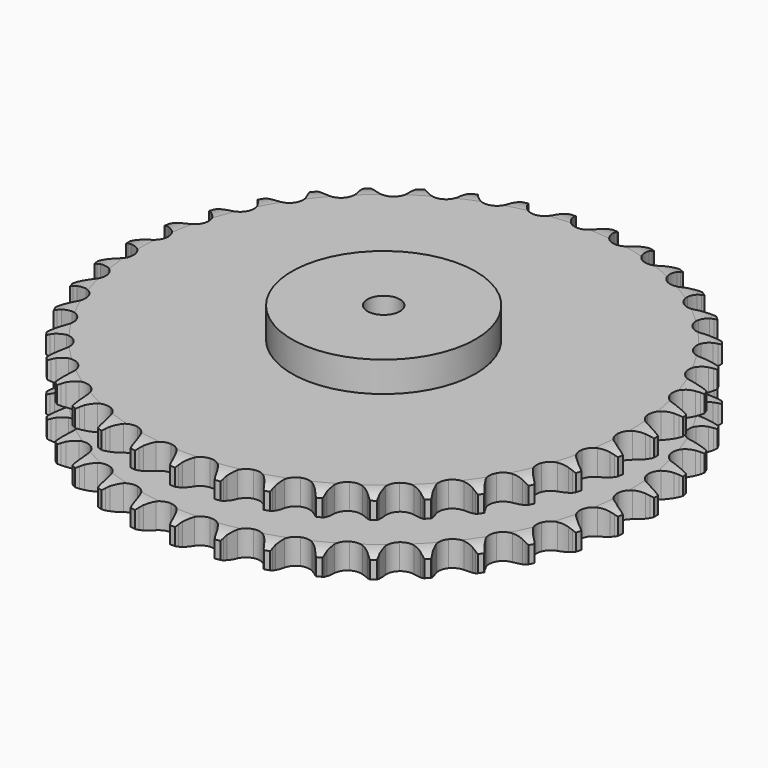
from build123d import *

# Parameters (mm, degrees)
PAD_DEPTH         = 72
SKETCH001_R       = 85
PAD001_DEPTH      = 100
SKETCH002_R       = 15
POCKET_DEPTH      = 0.001
POCKET_DEPTH_BACK = 100.001


with BuildPart() as part:
    # Sprocket → Pad (new body)
    with BuildSketch(Plane.XY):
        with BuildLine():
            ThreePointArc((-19.985627, 247.566418), (-17.701013, 244.436727), (-16.041452, 240.935259))
            Line((-16.041452, 240.935259), (-14.802936, 237.527718))
            ThreePointArc((-14.802936, 237.527718), (-12.848502, 233.161674), (-10.28554, 229.122692))
            ThreePointArc((-10.28554, 229.122692), (-5.758143, 225.310789), (0, 223.942682))
            ThreePointArc((0, 223.942682), (5.758143, 225.310789), (10.28554, 229.122692))
            ThreePointArc((10.28554, 229.122692), (12.848502, 233.161674), (14.802936, 237.527718))
            Line((14.802936, 237.527718), (16.041452, 240.935259))
            ThreePointArc((16.041452, 240.935259), (17.701013, 244.436727), (19.985627, 247.566418))
            ThreePointArc((19.985627, 247.566418), (21.738619, 244.110778), (22.815014, 240.388441))
            Line((22.815014, 240.388441), (23.490884, 236.826355))
            ThreePointArc((23.490884, 236.826355), (24.719645, 232.203336), (26.601519, 227.80553))
            ThreePointArc((26.601519, 227.80553), (30.458816, 223.316745), (35.922932, 221.042683))
            ThreePointArc((35.922932, 221.042683), (41.825969, 221.469402), (46.90621, 224.505697))
            Line((46.90621, 224.505697), (52.713367, 232.077239))
            ThreePointArc((52.713367, 232.077239), (53.554574, 233.683835), (54.482453, 235.241981))
            ThreePointArc((54.482453, 235.241981), (56.682198, 238.431894), (59.439265, 241.154578))
            ThreePointArc((59.439265, 241.154578), (60.615232, 237.462488), (61.080583, 233.615688))
            Line((61.080583, 233.615688), (61.176302, 229.991313))
            ThreePointArc((61.176302, 229.991313), (61.647567, 225.231054), (62.799614, 220.588324))
            ThreePointArc((62.799614, 220.588324), (65.886907, 215.538914), (70.91548, 212.417794))
            ThreePointArc((70.91548, 212.417794), (76.810524, 211.892075), (82.312033, 214.074122))
            Line((82.312033, 214.074122), (89.25855, 220.616081))
            ThreePointArc((89.25855, 220.616081), (90.34658, 222.066932), (91.512387, 223.456059))
            ThreePointArc((91.512387, 223.456059), (94.195344, 226.251799), (97.353457, 228.49696))
            ThreePointArc((97.353457, 228.49696), (97.921942, 224.664044), (97.764197, 220.792412))
            Line((97.764197, 220.792412), (97.277286, 217.199617))
            ThreePointArc((97.277286, 217.199617), (96.978849, 212.425406), (97.371231, 207.657997))
            ThreePointArc((97.371231, 207.657997), (99.608562, 202.178738), (104.071353, 198.291397))
            ThreePointArc((104.071353, 198.291397), (109.805727, 196.826853), (115.586018, 198.098139))
            Line((115.586018, 198.098139), (123.491983, 203.441082))
            ThreePointArc((123.491983, 203.441082), (124.798656, 204.698613), (126.172199, 205.882742))
            ThreePointArc((126.172199, 205.882742), (129.26888, 208.211902), (132.746245, 209.921392))
            ThreePointArc((132.746245, 209.921392), (132.692526, 206.04692), (131.91577, 202.250728))
            Line((131.91577, 202.250728), (130.85884, 198.782564))
            ThreePointArc((130.85884, 198.782564), (129.79843, 194.118051), (129.420984, 189.349437))
            ThreePointArc((129.420984, 189.349437), (130.750408, 183.58224), (134.531834, 179.029356))
            ThreePointArc((134.531834, 179.029356), (139.957019, 176.66392), (145.866385, 176.991519))
            Line((145.866385, 176.991519), (154.527039, 180.997066))
            ThreePointArc((154.527039, 180.997066), (156.018513, 182.028708), (157.564216, 182.977171))
            ThreePointArc((157.564216, 182.977171), (160.99442, 184.779426), (164.700976, 185.90897))
            ThreePointArc((164.700976, 185.90897), (164.026443, 182.093288), (162.650794, 178.470856))
            Line((162.650794, 178.470856), (161.051218, 175.217148))
            ThreePointArc((161.051218, 175.217148), (159.256299, 170.783141), (158.118802, 166.136825))
            ThreePointArc((158.118802, 166.136825), (158.505887, 160.231057), (161.50801, 155.130549))
            ThreePointArc((161.50801, 155.130549), (166.483498, 151.925484), (172.36889, 151.300912))
            Line((172.36889, 151.300912), (181.559926, 153.865322))
            ThreePointArc((181.559926, 153.865322), (183.197573, 154.644354), (184.875403, 155.332587))
            ThreePointArc((184.875403, 155.332587), (188.550289, 156.56126), (192.390037, 157.081603))
            ThreePointArc((192.390037, 157.081603), (191.112161, 153.423536), (189.173248, 150.068683))
            Line((189.173248, 150.068683), (187.072454, 147.1137))
            ThreePointArc((187.072454, 147.1137), (184.589515, 143.025037), (182.721426, 138.621358))
            ThreePointArc((182.721426, 138.621358), (182.156146, 132.729975), (184.301214, 127.213943))
            ThreePointArc((184.301214, 127.213943), (188.698142, 123.252258), (194.407132, 121.69169))
            Line((194.407132, 121.69169), (203.890506, 122.748546))
            ThreePointArc((203.890506, 122.748546), (205.631911, 123.254793), (207.398415, 123.664971))
            ThreePointArc((207.398415, 123.664971), (211.222805, 124.288239), (215.096298, 124.185905))
            ThreePointArc((215.096298, 124.185905), (213.248175, 120.780195), (210.796213, 117.77981))
            Line((210.796213, 117.77981), (208.248612, 115.200084))
            ThreePointArc((208.248612, 115.200084), (205.141958, 111.56266), (202.591661, 107.515669))
            ThreePointArc((202.591661, 107.515669), (201.088657, 101.791256), (202.321113, 96.002562))
            ThreePointArc((202.321113, 96.002562), (206.025603, 91.386862), (211.41033, 88.930718))
            Line((211.41033, 88.930718), (220.940429, 88.452647))
            ThreePointArc((220.940429, 88.452647), (222.740491, 88.672998), (224.549916, 88.794496))
            ThreePointArc((224.549916, 88.794496), (228.42476, 88.796219), (232.231677, 88.073858))
            ThreePointArc((232.231677, 88.073858), (229.861173, 85.00871), (226.959668, 82.440502))
            Line((226.959668, 82.440502), (224.03124, 80.302847))
            ThreePointArc((224.03124, 80.302847), (220.381333, 77.210869), (217.214879, 73.625382))
            ThreePointArc((217.214879, 73.625382), (214.813078, 68.216197), (215.101002, 62.304765))
            ThreePointArc((215.101002, 62.304765), (218.01711, 57.154596), (222.938112, 53.866487))
            Line((222.938112, 53.866487), (232.268111, 51.865872))
            ThreePointArc((232.268111, 51.865872), (234.08021, 51.794618), (235.885692, 51.624291))
            ThreePointArc((235.885692, 51.624291), (239.710635, 51.004422), (243.352379, 49.680744))
            ThreePointArc((243.352379, 49.680744), (240.520887, 47.035545), (237.244987, 44.966028))
            Line((237.244987, 44.966028), (234.011577, 43.325808))
            ThreePointArc((234.011577, 43.325808), (229.912947, 40.859357), (226.212345, 37.828236))
            ThreePointArc((226.212345, 37.828236), (222.973952, 32.874374), (222.309887, 26.993307))
            ThreePointArc((222.309887, 26.993307), (224.362087, 21.442055), (228.691914, 17.407142))
            Line((228.691914, 17.407142), (237.58017, 13.935797))
            ThreePointArc((237.58017, 13.935797), (239.357373, 13.574785), (241.112153, 13.117044))
            ThreePointArc((241.112153, 13.117044), (244.78813, 11.891639), (248.170381, 10.000924))
            ThreePointArc((248.170381, 10.000924), (244.951237, 7.844183), (241.385784, 6.326958))
            Line((241.385784, 6.326958), (237.931137, 5.226653))
            ThreePointArc((237.931137, 5.226653), (233.489936, 3.449608), (229.35103, 1.051358))
            ThreePointArc((229.35103, 1.051358), (225.359919, -3.318878), (223.761064, -9.017263))
            ThreePointArc((223.761064, -9.017263), (224.896205, -14.825824), (228.522716, -19.503039))
            Line((228.522716, -19.503039), (236.739029, -24.355207))
            ThreePointArc((236.739029, -24.355207), (238.435307, -24.996627), (240.093936, -25.729927))
            ThreePointArc((240.093936, -25.729927), (243.525741, -27.529132), (246.560901, -29.937914))
            ThreePointArc((246.560901, -29.937914), (243.037478, -31.550339), (239.274817, -32.475977))
            Line((239.274817, -32.475977), (235.688405, -33.007869))
            ThreePointArc((235.688405, -33.007869), (231.019659, -34.049483), (226.549644, -35.752749))
            ThreePointArc((226.549644, -35.752749), (221.909181, -39.426172), (219.416946, -44.79429))
            ThreePointArc((219.416946, -44.79429), (219.605628, -50.709722), (222.434899, -55.908101))
            Line((222.434899, -55.908101), (229.76647, -62.015424))
            ThreePointArc((229.76647, -62.015424), (231.337891, -62.920641), (232.857412, -63.910507))
            ThreePointArc((232.857412, -63.910507), (235.956163, -66.236913), (238.565623, -69.101375))
            ThreePointArc((238.565623, -69.101375), (234.829176, -70.127723), (230.966758, -70.437802))
            Line((230.966758, -70.437802), (227.341468, -70.387505))
            ThreePointArc((227.341468, -70.387505), (222.566094, -70.666711), (217.880741, -71.630879))
            ThreePointArc((217.880741, -71.630879), (212.711113, -74.51235), (209.390045, -79.411169))
            ThreePointArc((209.390045, -79.411169), (208.627382, -85.280264), (210.586136, -90.865173))
            Line((210.586136, -90.865173), (216.843081, -98.069475))
            ThreePointArc((216.843081, -98.069475), (218.248946, -99.215042), (219.590003, -100.435839))
            ThreePointArc((219.590003, -100.435839), (222.275445, -103.229193), (224.391621, -106.475148))
            ThreePointArc((224.391621, -106.475148), (220.538922, -106.888836), (216.676781, -106.575324))
            Line((216.676781, -106.575324), (213.106506, -105.944141))
            ThreePointArc((213.106506, -105.944141), (208.348184, -105.453707), (203.568842, -105.653807))
            ThreePointArc((203.568842, -105.653807), (198.003939, -107.668696), (193.940051, -111.971341))
            ThreePointArc((193.940051, -111.971341), (192.245796, -117.642093), (193.283302, -123.468885))
            Line((193.283302, -123.468885), (198.30357, -131.583577))
            ThreePointArc((198.30357, -131.583577), (199.507467, -132.939827), (200.635329, -134.359935))
            ThreePointArc((200.635329, -134.359935), (202.837909, -137.547891), (204.405993, -141.09127))
            ThreePointArc((204.405993, -141.09127), (200.536826, -140.881585), (196.77499, -139.952602))
            Line((196.77499, -139.952602), (193.352197, -138.75688))
            ThreePointArc((193.352197, -138.75688), (188.734165, -137.509509), (183.984616, -136.940357))
            ThreePointArc((183.984616, -136.940357), (178.168566, -138.03648), (173.467112, -141.631513))
            ThreePointArc((173.467112, -141.631513), (170.885144, -146.957053), (170.974532, -152.874817))
            Line((170.974532, -152.874817), (174.628101, -161.689734))
            ThreePointArc((174.628101, -161.689734), (175.59885, -163.221539), (176.484305, -164.804179))
            ThreePointArc((176.484305, -164.804179), (178.146978, -168.304171), (179.126358, -172.053202))
            ThreePointArc((179.126358, -172.053202), (175.340931, -171.225575), (171.776829, -169.705181))
            Line((171.776829, -169.705181), (168.590168, -167.975888))
            ThreePointArc((168.590168, -167.975888), (164.232031, -166.003886), (159.635286, -164.680223))
            ThreePointArc((159.635286, -164.680223), (153.718721, -164.829192), (148.501466, -167.623504))
            ThreePointArc((148.501466, -167.623504), (145.098657, -172.465902), (144.237611, -178.321372))
            Line((144.237611, -178.321372), (146.429856, -187.608212))
            ThreePointArc((146.429856, -187.608212), (147.142315, -189.275899), (147.76243, -190.980082))
            ThreePointArc((147.76243, -190.980082), (148.842134, -194.701461), (149.207444, -198.559047))
            ThreePointArc((149.207444, -198.559047), (145.603798, -197.134912), (142.329739, -195.062484))
            Line((142.329739, -195.062484), (139.461742, -192.844409))
            ThreePointArc((139.461742, -192.844409), (135.476374, -190.19885), (131.151485, -188.154958))
            ThreePointArc((131.151485, -188.154958), (125.287642, -187.352914), (119.68971, -189.274134))
            ThreePointArc((119.68971, -189.274134), (115.554192, -193.507976), (113.765012, -199.149497))
            Line((113.765012, -199.149497), (114.439154, -208.667736))
            ThreePointArc((114.439154, -208.667736), (114.874871, -210.428113), (115.213586, -212.2097))
            ThreePointArc((115.213586, -212.2097), (115.682356, -216.056085), (115.424136, -219.922317))
            ThreePointArc((115.424136, -219.922317), (112.095604, -217.938558), (109.196383, -215.367772))
            Line((109.196383, -215.367772), (106.721331, -212.718362))
            ThreePointArc((106.721331, -212.718362), (103.211949, -209.467763), (99.27093, -206.756578))
            ThreePointArc((99.27093, -206.756578), (93.611679, -205.024295), (87.778054, -206.022664))
            ThreePointArc((87.778054, -206.022664), (83.016933, -209.538294), (80.345959, -214.819755))
            Line((80.345959, -214.819755), (79.484538, -224.322875))
            ThreePointArc((79.484538, -224.322875), (79.632229, -226.13035), (79.68077, -227.943199))
            ThreePointArc((79.68077, -227.943199), (79.526467, -231.814971), (78.651403, -235.589714))
            ThreePointArc((78.651403, -235.589714), (75.684192, -233.097711), (73.234898, -230.095148))
            Line((73.234898, -230.095148), (71.216893, -227.08302))
            ThreePointArc((71.216893, -227.08302), (68.274389, -223.311572), (64.81931, -220.003312))
            ThreePointArc((64.81931, -220.003312), (59.511223, -217.385653), (53.592992, -217.435314))
            ThreePointArc((53.592992, -217.435314), (48.329579, -220.141681), (44.845988, -224.926294))
            Line((44.845988, -224.926294), (42.471315, -234.168169))
            ThreePointArc((42.471315, -234.168169), (42.327153, -235.975929), (42.084265, -237.773089))
            ThreePointArc((42.084265, -237.773089), (41.310884, -241.56997), (39.84164, -245.155461))
            ThreePointArc((39.84164, -245.155461), (37.312599, -242.219755), (35.376668, -238.86318))
            Line((35.376668, -238.86318), (33.867975, -235.566348))
            ThreePointArc((33.867975, -235.566348), (31.568559, -231.371728), (28.688904, -227.552076))
            ThreePointArc((28.688904, -227.552076), (23.869457, -224.116838), (18.019899, -223.216504))
            ThreePointArc((18.019899, -223.216504), (12.390515, -225.043514), (8.18453, -229.20736))
            Line((8.18453, -229.20736), (4.358106, -237.94863))
            ThreePointArc((4.358106, -237.94863), (3.925826, -239.709856), (3.397799, -241.444781))
            ThreePointArc((3.397799, -241.444781), (2.02537, -245.068434), (0, -248.371811))
            ThreePointArc((0, -248.371811), (-2.02537, -245.068434), (-3.397799, -241.444781))
            Line((-3.397799, -241.444781), (-4.358106, -237.94863))
            ThreePointArc((-4.358106, -237.94863), (-5.954881, -233.439477), (-8.18453, -229.20736))
            ThreePointArc((-8.18453, -229.20736), (-12.390515, -225.043514), (-18.019899, -223.216504))
            ThreePointArc((-18.019899, -223.216504), (-23.869457, -224.116838), (-28.688904, -227.552076))
            Line((-28.688904, -227.552076), (-33.867975, -235.566348))
            ThreePointArc((-33.867975, -235.566348), (-34.577177, -237.235423), (-35.376668, -238.86318))
            ThreePointArc((-35.376668, -238.86318), (-37.312599, -242.219755), (-39.84164, -245.155461))
            ThreePointArc((-39.84164, -245.155461), (-41.310884, -241.56997), (-42.084265, -237.773089))
            Line((-42.084265, -237.773089), (-42.471315, -234.168169))
            ThreePointArc((-42.471315, -234.168169), (-43.324093, -229.461267), (-44.845988, -224.926294))
            ThreePointArc((-44.845988, -224.926294), (-48.329579, -220.141681), (-53.592992, -217.435314))
            ThreePointArc((-53.592992, -217.435314), (-59.511223, -217.385653), (-64.81931, -220.003312))
            Line((-64.81931, -220.003312), (-71.216893, -227.08302))
            ThreePointArc((-71.216893, -227.08302), (-72.18465, -228.616717), (-73.234898, -230.095148))
            ThreePointArc((-73.234898, -230.095148), (-75.684192, -233.097711), (-78.651403, -235.589714))
            ThreePointArc((-78.651403, -235.589714), (-79.526467, -231.814971), (-79.68077, -227.943199))
            Line((-79.68077, -227.943199), (-79.484538, -224.322875))
            ThreePointArc((-79.484538, -224.322875), (-79.571233, -219.540131), (-80.345959, -214.819755))
            ThreePointArc((-80.345959, -214.819755), (-83.016933, -209.538294), (-87.778054, -206.022664))
            ThreePointArc((-87.778054, -206.022664), (-93.611679, -205.024295), (-99.27093, -206.756578))
            Line((-99.27093, -206.756578), (-106.721331, -212.718362))
            ThreePointArc((-106.721331, -212.718362), (-107.922578, -214.076959), (-109.196383, -215.367772))
            ThreePointArc((-109.196383, -215.367772), (-112.095604, -217.938558), (-115.424136, -219.922317))
            ThreePointArc((-115.424136, -219.922317), (-115.682356, -216.056085), (-115.213586, -212.2097))
            Line((-115.213586, -212.2097), (-114.439154, -208.667736))
            ThreePointArc((-114.439154, -208.667736), (-113.75752, -203.933021), (-113.765012, -199.149497))
            ThreePointArc((-113.765012, -199.149497), (-115.554192, -193.507976), (-119.68971, -189.274134))
            ThreePointArc((-119.68971, -189.274134), (-125.287642, -187.352914), (-131.151485, -188.154958))
            Line((-131.151485, -188.154958), (-139.461742, -192.844409))
            ThreePointArc((-139.461742, -192.844409), (-140.865368, -193.992719), (-142.329739, -195.062484))
            ThreePointArc((-142.329739, -195.062484), (-145.603798, -197.134912), (-149.207444, -198.559047))
            ThreePointArc((-149.207444, -198.559047), (-148.842134, -194.701461), (-147.76243, -190.980082))
            Line((-147.76243, -190.980082), (-146.429856, -187.608212))
            ThreePointArc((-146.429856, -187.608212), (-144.997547, -183.044152), (-144.237611, -178.321372))
            ThreePointArc((-144.237611, -178.321372), (-145.098657, -172.465902), (-148.501466, -167.623504))
            ThreePointArc((-148.501466, -167.623504), (-153.718721, -164.829192), (-159.635286, -164.680223))
            Line((-159.635286, -164.680223), (-168.590168, -167.975888))
            ThreePointArc((-168.590168, -167.975888), (-170.159819, -168.88417), (-171.776829, -169.705181))
            ThreePointArc((-171.776829, -169.705181), (-175.340931, -171.225575), (-179.126358, -172.053202))
            ThreePointArc((-179.126358, -172.053202), (-178.146978, -168.304171), (-176.484305, -164.804179))
            Line((-176.484305, -164.804179), (-174.628101, -161.689734))
            ThreePointArc((-174.628101, -161.689734), (-172.482214, -157.414536), (-170.974532, -152.874817))
            ThreePointArc((-170.974532, -152.874817), (-170.885144, -146.957053), (-173.467112, -141.631513))
            ThreePointArc((-173.467112, -141.631513), (-178.168566, -138.03648), (-183.984616, -136.940357))
            Line((-183.984616, -136.940357), (-193.352197, -138.75688))
            ThreePointArc((-193.352197, -138.75688), (-195.04722, -139.40161), (-196.77499, -139.952602))
            ThreePointArc((-196.77499, -139.952602), (-200.536826, -140.881585), (-204.405993, -141.09127))
            ThreePointArc((-204.405993, -141.09127), (-202.837909, -137.547891), (-200.635329, -134.359935))
            Line((-200.635329, -134.359935), (-198.30357, -131.583577))
            ThreePointArc((-198.30357, -131.583577), (-195.499682, -127.707966), (-193.283302, -123.468885))
            ThreePointArc((-193.283302, -123.468885), (-192.245796, -117.642093), (-193.940051, -111.971341))
            ThreePointArc((-193.940051, -111.971341), (-198.003939, -107.668696), (-203.568842, -105.653807))
            Line((-203.568842, -105.653807), (-213.106506, -105.944141))
            ThreePointArc((-213.106506, -105.944141), (-214.883001, -106.308622), (-216.676781, -106.575324))
            ThreePointArc((-216.676781, -106.575324), (-220.538922, -106.888836), (-224.391621, -106.475148))
            ThreePointArc((-224.391621, -106.475148), (-222.275445, -103.229193), (-219.590003, -100.435839))
            Line((-219.590003, -100.435839), (-216.843081, -98.069475))
            ThreePointArc((-216.843081, -98.069475), (-213.453811, -94.693828), (-210.586136, -90.865173))
            ThreePointArc((-210.586136, -90.865173), (-208.627382, -85.280264), (-209.390045, -79.411169))
            ThreePointArc((-209.390045, -79.411169), (-212.711113, -74.51235), (-217.880741, -71.630879))
            Line((-217.880741, -71.630879), (-227.341468, -70.387505))
            ThreePointArc((-227.341468, -70.387505), (-229.153424, -70.462295), (-230.966758, -70.437802))
            ThreePointArc((-230.966758, -70.437802), (-234.829176, -70.127723), (-238.565623, -69.101375))
            ThreePointArc((-238.565623, -69.101375), (-235.956163, -66.236913), (-232.857412, -63.910507))
            Line((-232.857412, -63.910507), (-229.76647, -62.015424))
            ThreePointArc((-229.76647, -62.015424), (-225.879598, -59.227168), (-222.434899, -55.908101))
            ThreePointArc((-222.434899, -55.908101), (-219.605628, -50.709722), (-219.416946, -44.79429))
            ThreePointArc((-219.416946, -44.79429), (-221.909181, -39.426172), (-226.549644, -35.752749))
            Line((-226.549644, -35.752749), (-235.688405, -33.007869))
            ThreePointArc((-235.688405, -33.007869), (-237.488895, -32.791033), (-239.274817, -32.475977))
            ThreePointArc((-239.274817, -32.475977), (-243.037478, -31.550339), (-246.560901, -29.937914))
            ThreePointArc((-246.560901, -29.937914), (-243.525741, -27.529132), (-240.093936, -25.729927))
            Line((-240.093936, -25.729927), (-236.739029, -24.355207))
            ThreePointArc((-236.739029, -24.355207), (-232.455222, -22.226556), (-228.522716, -19.503039))
            ThreePointArc((-228.522716, -19.503039), (-224.896205, -14.825824), (-223.761064, -9.017263))
            ThreePointArc((-223.761064, -9.017263), (-225.359919, -3.318878), (-229.35103, 1.051358))
            Line((-229.35103, 1.051358), (-237.931137, 5.226653))
            ThreePointArc((-237.931137, 5.226653), (-239.673528, 5.7295), (-241.385784, 6.326958))
            ThreePointArc((-241.385784, 6.326958), (-244.951237, 7.844183), (-248.170381, 10.000924))
            ThreePointArc((-248.170381, 10.000924), (-244.78813, 11.891639), (-241.112153, 13.117044))
            Line((-241.112153, 13.117044), (-237.58017, 13.935797))
            ThreePointArc((-237.58017, 13.935797), (-233.010379, 15.349712), (-228.691914, 17.407142))
            ThreePointArc((-228.691914, 17.407142), (-224.362087, 21.442055), (-222.309887, 26.993307))
            ThreePointArc((-222.309887, 26.993307), (-222.973952, 32.874374), (-226.212345, 37.828236))
            Line((-226.212345, 37.828236), (-234.011577, 43.325808))
            ThreePointArc((-234.011577, 43.325808), (-235.650742, 44.101642), (-237.244987, 44.966028))
            ThreePointArc((-237.244987, 44.966028), (-240.520887, 47.035545), (-243.352379, 49.680744))
            ThreePointArc((-243.352379, 49.680744), (-239.710635, 51.004422), (-235.885692, 51.624291))
            Line((-235.885692, 51.624291), (-232.268111, 51.865872))
            ThreePointArc((-232.268111, 51.865872), (-227.530689, 52.52843), (-222.938112, 53.866487))
            ThreePointArc((-222.938112, 53.866487), (-218.01711, 57.154596), (-215.101002, 62.304765))
            ThreePointArc((-215.101002, 62.304765), (-214.813078, 68.216197), (-217.214879, 73.625382))
            Line((-217.214879, 73.625382), (-224.03124, 80.302847))
            ThreePointArc((-224.03124, 80.302847), (-225.524726, 81.331575), (-226.959668, 82.440502))
            ThreePointArc((-226.959668, 82.440502), (-229.861173, 85.00871), (-232.231677, 88.073858))
            ThreePointArc((-232.231677, 88.073858), (-228.42476, 88.796219), (-224.549916, 88.794496))
            Line((-224.549916, 88.794496), (-220.940429, 88.452647))
            ThreePointArc((-220.940429, 88.452647), (-216.158073, 88.34669), (-211.41033, 88.930718))
            ThreePointArc((-211.41033, 88.930718), (-206.025603, 91.386862), (-202.321113, 96.002562))
            ThreePointArc((-202.321113, 96.002562), (-201.088657, 101.791256), (-202.591661, 107.515669))
            Line((-202.591661, 107.515669), (-208.248612, 115.200084))
            ThreePointArc((-208.248612, 115.200084), (-209.557738, 116.455062), (-210.796213, 117.77981))
            ThreePointArc((-210.796213, 117.77981), (-213.248175, 120.780195), (-215.096298, 124.185905))
            ThreePointArc((-215.096298, 124.185905), (-211.222805, 124.288239), (-207.398415, 123.664971))
            Line((-207.398415, 123.664971), (-203.890506, 122.748546))
            ThreePointArc((-203.890506, 122.748546), (-199.187077, 121.876817), (-194.407132, 121.69169))
            ThreePointArc((-194.407132, 121.69169), (-188.698142, 123.252258), (-184.301214, 127.213943))
            ThreePointArc((-184.301214, 127.213943), (-182.156146, 132.729975), (-182.721426, 138.621358))
            Line((-182.721426, 138.621358), (-187.072454, 147.1137))
            ThreePointArc((-187.072454, 147.1137), (-188.163314, 148.562425), (-189.173248, 150.068683))
            ThreePointArc((-189.173248, 150.068683), (-191.112161, 153.423536), (-192.390037, 157.081603))
            ThreePointArc((-192.390037, 157.081603), (-188.550289, 156.56126), (-184.875403, 155.332587))
            Line((-184.875403, 155.332587), (-181.559926, 153.865322))
            ThreePointArc((-181.559926, 153.865322), (-177.05724, 152.250398), (-172.36889, 151.300912))
            ThreePointArc((-172.36889, 151.300912), (-166.483498, 151.925484), (-161.50801, 155.130549))
            ThreePointArc((-161.50801, 155.130549), (-158.505887, 160.231057), (-158.118802, 166.136825))
            Line((-158.118802, 166.136825), (-161.051218, 175.217148))
            ThreePointArc((-161.051218, 175.217148), (-161.89556, 176.822099), (-162.650794, 178.470856))
            ThreePointArc((-162.650794, 178.470856), (-164.026443, 182.093288), (-164.700976, 185.90897))
            ThreePointArc((-164.700976, 185.90897), (-160.99442, 184.779426), (-157.564216, 182.977171))
            Line((-157.564216, 182.977171), (-154.527039, 180.997066))
            ThreePointArc((-154.527039, 180.997066), (-150.341714, 178.680774), (-145.866385, 176.991519))
            ThreePointArc((-145.866385, 176.991519), (-139.957019, 176.66392), (-134.531834, 179.029356))
            ThreePointArc((-134.531834, 179.029356), (-130.750408, 183.58224), (-129.420984, 189.349437))
            Line((-129.420984, 189.349437), (-130.85884, 198.782564))
            ThreePointArc((-130.85884, 198.782564), (-131.434796, 200.502173), (-131.91577, 202.250728))
            ThreePointArc((-131.91577, 202.250728), (-132.692526, 206.04692), (-132.746245, 209.921392))
            ThreePointArc((-132.746245, 209.921392), (-129.26888, 208.211902), (-126.172199, 205.882742))
            Line((-126.172199, 205.882742), (-123.491983, 203.441082))
            ThreePointArc((-123.491983, 203.441082), (-119.732417, 200.483412), (-115.586018, 198.098139))
            ThreePointArc((-115.586018, 198.098139), (-109.805727, 196.826853), (-104.071353, 198.291397))
            ThreePointArc((-104.071353, 198.291397), (-99.608562, 202.178738), (-97.371231, 207.657997))
            Line((-97.371231, 207.657997), (-97.277286, 217.199617))
            ThreePointArc((-97.277286, 217.199617), (-97.569939, 218.989347), (-97.764197, 220.792412))
            ThreePointArc((-97.764197, 220.792412), (-97.921942, 224.664044), (-97.353457, 228.49696))
            ThreePointArc((-97.353457, 228.49696), (-94.195344, 226.251799), (-91.512387, 223.456059))
            Line((-91.512387, 223.456059), (-89.25855, 220.616081))
            ThreePointArc((-89.25855, 220.616081), (-86.022112, 217.093635), (-82.312033, 214.074122))
            ThreePointArc((-82.312033, 214.074122), (-76.810524, 211.892075), (-70.91548, 212.417794))
            ThreePointArc((-70.91548, 212.417794), (-65.886907, 215.538914), (-62.799614, 220.588324))
            Line((-62.799614, 220.588324), (-61.176302, 229.991313))
            ThreePointArc((-61.176302, 229.991313), (-61.178072, 231.804811), (-61.080583, 233.615688))
            ThreePointArc((-61.080583, 233.615688), (-60.615232, 237.462488), (-59.439265, 241.154578))
            ThreePointArc((-59.439265, 241.154578), (-56.682198, 238.431894), (-54.482453, 235.241981))
            Line((-54.482453, 235.241981), (-52.713367, 232.077239))
            ThreePointArc((-52.713367, 232.077239), (-50.08388, 228.081247), (-46.90621, 224.505697))
            ThreePointArc((-46.90621, 224.505697), (-41.825969, 221.469402), (-35.922932, 221.042683))
            ThreePointArc((-35.922932, 221.042683), (-30.458816, 223.316745), (-26.601519, 227.80553))
            Line((-26.601519, 227.80553), (-23.490884, 236.826355))
            ThreePointArc((-23.490884, 236.826355), (-23.201726, 238.616653), (-22.815014, 240.388441))
            ThreePointArc((-22.815014, 240.388441), (-21.738619, 244.110778), (-19.985627, 247.566418))
        make_face()
    extrude(amount=PAD_DEPTH)

    # Sketch → Groove (revolve, cut)
    with BuildSketch(Plane.XZ):
        with BuildLine():
            ThreePointArc((227.279437, 0), (235.997235, 1.013516), (244.25, 4))
            Line((244.25, 4), (244.25, 19.6))
            ThreePointArc((244.25, 19.6), (235.997235, 22.586484), (227.279437, 23.6))
            Line((85, 23.6), (227.279437, 23.6))
            Line((85, 48.4), (85, 23.6))
            Line((227.279437, 48.4), (85, 48.4))
            ThreePointArc((227.279437, 48.4), (235.997235, 49.413516), (244.25, 52.4))
            Line((244.25, 52.4), (244.25, 68))
            ThreePointArc((244.25, 68), (235.997235, 70.986484), (227.279437, 72))
            Line((227.279437, 72), (254.25, 72))
            Line((254.25, 72), (254.25, 0))
            Line((227.279437, 0), (254.25, 0))
        make_face()
    revolve(axis=Axis((0, 0, 0), (0, 0, 1)), mode=Mode.SUBTRACT)

    # Sketch001 → Pad001 (join)
    with BuildSketch(Plane.XY):
        Circle(SKETCH001_R)
    extrude(amount=PAD001_DEPTH)

    # Sketch002 → Pocket (cut, two sides)
    with BuildSketch(Plane.XY) as pocket_sk:
        Circle(SKETCH002_R)
    extrude(amount=-POCKET_DEPTH, mode=Mode.SUBTRACT)
    extrude(pocket_sk.sketch, amount=POCKET_DEPTH_BACK, mode=Mode.SUBTRACT)


solid = part.part
